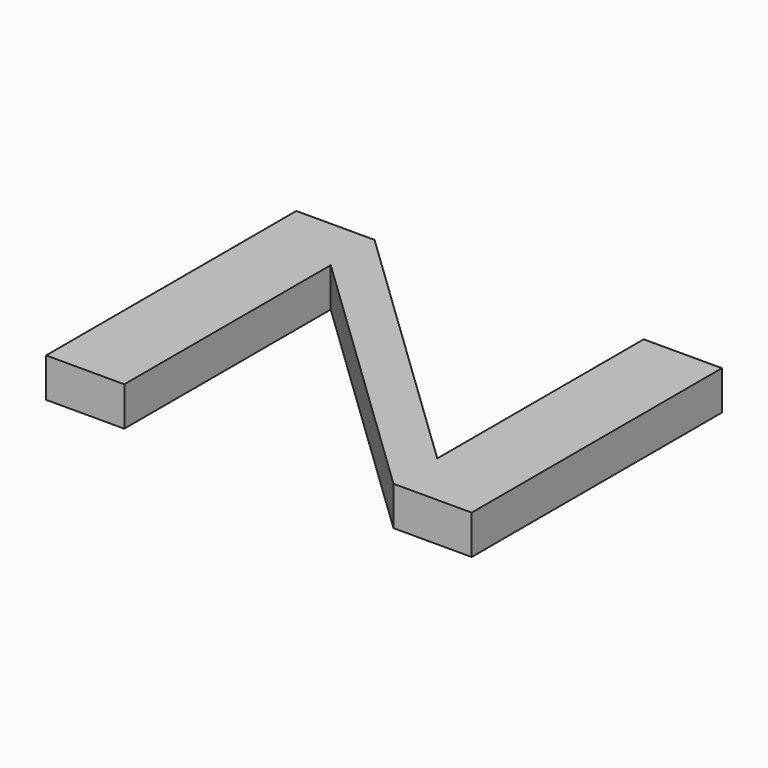
from build123d import *

# Parameters (mm, degrees)
F1_DEPTH = 1.27


with BuildPart() as f1:
    # F0 (on Top) → F1 (new body)
    with BuildSketch(Plane.XY):
        Polygon((-4.106474, 4.19899), (-6.646474, 4.19899), (-6.646474, -5.96101), (-4.106474, -5.96101), (-4.106474, 2.42099), align=None)
        Polygon((4.636342, -4.18301), (-4.106474, 4.19899), (-4.106474, 2.42099), (4.636342, -5.96101), align=None)
        Polygon((4.636342, 4.19899), (4.636342, -4.18301), (4.636342, -5.96101), (7.176342, -5.96101), (7.176342, 4.19899), align=None)
    extrude(amount=F1_DEPTH)


solid = f1.part
